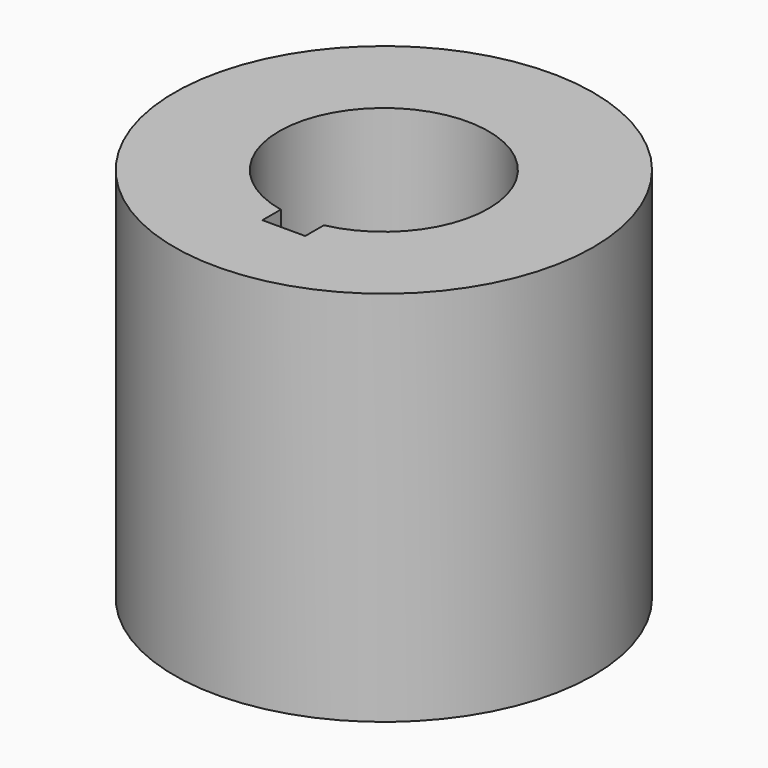
from build123d import *

# Parameters (mm, degrees)
F0_R     = 100
F1_DEPTH = 180
F2_R     = 50
F3_DEPTH = 180.001
F4_W     = 20.454546
F4_H     = 19.62437
F5_DEPTH = 180.001


with BuildPart() as f1:
    # F0 (on Top) → F1 (new body)
    with BuildSketch(Plane.XY):
        Circle(F0_R)
    extrude(amount=F1_DEPTH)

    # F2 (on face) → F3 (cut, through all)
    with BuildSketch(Plane.XY.offset(180)):
        Circle(F2_R)
    extrude(amount=-F3_DEPTH, mode=Mode.SUBTRACT)

    # F4 (on face) → F5 (cut, through all)
    with BuildSketch(Plane.XY.offset(180)):
        with Locations((0.227273, -50.187815)):
            Rectangle(F4_W, F4_H)
    extrude(amount=-F5_DEPTH, mode=Mode.SUBTRACT)


solid = f1.part
